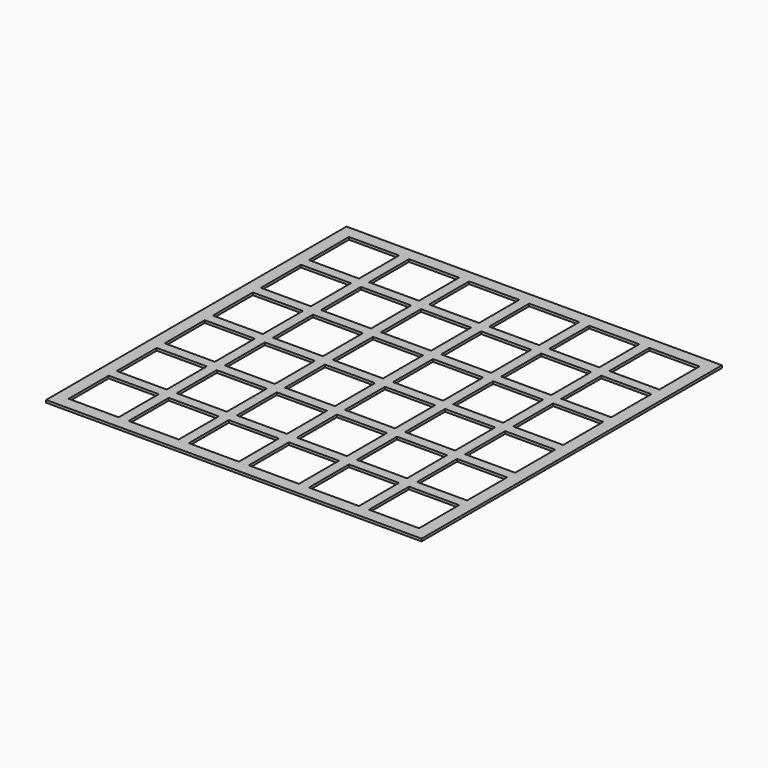
from build123d import *

# Parameters (mm, degrees)
F0_W     = 150
F0_H     = 150
F1_DEPTH = 1
F2_W     = 20
F2_H     = 20
F3_DEPTH = 1.001


with BuildPart() as f1:
    # F0 (on Top) → F1 (new body)
    with BuildSketch(Plane.XY):
        Rectangle(F0_W, F0_H)
    extrude(amount=F1_DEPTH)

    # F2 (on face) → F3 (cut, through all)
    with BuildSketch(Plane.XY.offset(1)):
        with Locations((-60, 60)):
            Rectangle(F2_W, F2_H)
        with Locations((-36, 60)):
            Rectangle(F2_W, F2_H)
        with Locations((-12, 60)):
            Rectangle(F2_W, F2_H)
        with Locations((12, 60)):
            Rectangle(F2_W, F2_H)
        with Locations((36, 60)):
            Rectangle(F2_W, F2_H)
        with Locations((60, 60)):
            Rectangle(F2_W, F2_H)
        with Locations((12, 36)):
            Rectangle(F2_W, F2_H)
        with Locations((60, 36)):
            Rectangle(F2_W, F2_H)
        with Locations((-36, 36)):
            Rectangle(F2_W, F2_H)
        with Locations((-60, 36)):
            Rectangle(F2_W, F2_H)
        with Locations((-12, 36)):
            Rectangle(F2_W, F2_H)
        with Locations((36, 36)):
            Rectangle(F2_W, F2_H)
        with Locations((12, 12)):
            Rectangle(F2_W, F2_H)
        with Locations((60, 12)):
            Rectangle(F2_W, F2_H)
        with Locations((-36, 12)):
            Rectangle(F2_W, F2_H)
        with Locations((-60, 12)):
            Rectangle(F2_W, F2_H)
        with Locations((-12, 12)):
            Rectangle(F2_W, F2_H)
        with Locations((36, 12)):
            Rectangle(F2_W, F2_H)
        with Locations((12, -12)):
            Rectangle(F2_W, F2_H)
        with Locations((60, -12)):
            Rectangle(F2_W, F2_H)
        with Locations((-36, -12)):
            Rectangle(F2_W, F2_H)
        with Locations((-60, -12)):
            Rectangle(F2_W, F2_H)
        with Locations((-12, -12)):
            Rectangle(F2_W, F2_H)
        with Locations((36, -12)):
            Rectangle(F2_W, F2_H)
        with Locations((12, -36)):
            Rectangle(F2_W, F2_H)
        with Locations((60, -36)):
            Rectangle(F2_W, F2_H)
        with Locations((-36, -36)):
            Rectangle(F2_W, F2_H)
        with Locations((-60, -36)):
            Rectangle(F2_W, F2_H)
        with Locations((-12, -36)):
            Rectangle(F2_W, F2_H)
        with Locations((36, -36)):
            Rectangle(F2_W, F2_H)
        with Locations((12, -60)):
            Rectangle(F2_W, F2_H)
        with Locations((60, -60)):
            Rectangle(F2_W, F2_H)
        with Locations((-36, -60)):
            Rectangle(F2_W, F2_H)
        with Locations((-60, -60)):
            Rectangle(F2_W, F2_H)
        with Locations((-12, -60)):
            Rectangle(F2_W, F2_H)
        with Locations((36, -60)):
            Rectangle(F2_W, F2_H)
    extrude(amount=-F3_DEPTH, mode=Mode.SUBTRACT)


solid = f1.part
